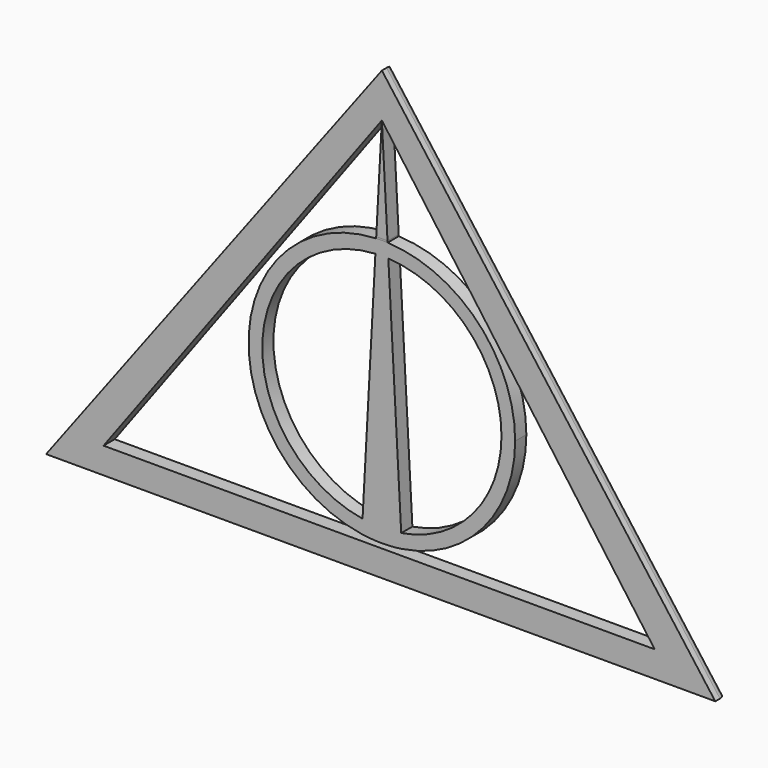
from build123d import *

# Parameters (mm, degrees)
F1_DEPTH = 4.3948143721
F2_R     = 2.54
F3_DEPTH = 4.318


with BuildPart() as f1:
    # F0 (on Front) → F1 (new body)
    with BuildSketch(Plane.XZ):
        with BuildLine():
            ThreePointArc((41.8964295767, 21.6959267855), (30.2550519176, 50.6776907887), (1.8002851927, 63.5536594582))
            Line((1.8002851927, 63.5536594582), (2.033911075, 59.2389039918))
            ThreePointArc((2.033911075, 59.2389039918), (27.2954481859, 47.5526558924), (37.5980309561, 21.6959267855))
            ThreePointArc((37.5980309561, 21.6959267855), (28.653509469, -2.6472103765), (6.0757245047, -15.4079477227))
            Line((6.0757245047, -15.4079477227), (6.3093503869, -19.7227031891))
            ThreePointArc((6.3093503869, -19.7227031891), (31.7777442988, -5.607658667), (41.8964295767, 21.6959267855))
        make_face()
        with BuildLine():
            Line((-2.033911075, 59.2389039918), (-1.8002851927, 63.5536594582))
            ThreePointArc((-1.8002851927, 63.5536594582), (-41.8351489928, 23.9611243544), (-6.3093503869, -19.7227031891))
            Line((-6.3093503869, -19.7227031891), (-6.0757245047, -15.4079477227))
            ThreePointArc((-6.0757245047, -15.4079477227), (-37.5430375041, 23.7287245484), (-2.033911075, 59.2389039918))
        make_face()
        with BuildLine():
            Line((0, -15.9021041707), (0, -20.2005027912))
            ThreePointArc((0, -20.2005027912), (3.1637080604, -20.0808821231), (6.3093503869, -19.7227031891))
            Line((6.3093503869, -19.7227031891), (6.0757245047, -15.4079477227))
            ThreePointArc((6.0757245047, -15.4079477227), (3.0478934878, -15.7783614275), (0, -15.9021041707))
        make_face()
        with BuildLine():
            Line((-6.0757245047, -15.4079477227), (-6.3093503869, -19.7227031891))
            ThreePointArc((-6.3093503869, -19.7227031891), (-3.1637080604, -20.0808821231), (0, -20.2005027912))
            Line((0, -20.2005027912), (0, -15.9021041707))
            ThreePointArc((0, -15.9021041707), (-3.0478934878, -15.7783614275), (-6.0757245047, -15.4079477227))
        make_face()
        with BuildLine():
            ThreePointArc((2.033911075, 59.2389039918), (1.017328017, 59.2801917841), (0, 59.2939577416))
            Line((0, 59.2939577416), (0, -15.9021041707))
            ThreePointArc((0, -15.9021041707), (3.0478934878, -15.7783614275), (6.0757245047, -15.4079477227))
            Line((6.0757245047, -15.4079477227), (2.033911075, 59.2389039918))
        make_face()
        with BuildLine():
            Line((0, -15.9021041707), (0, 59.2939577416))
            ThreePointArc((0, 59.2939577416), (-1.017328017, 59.2801917841), (-2.033911075, 59.2389039918))
            Line((-2.033911075, 59.2389039918), (-6.0757245047, -15.4079477227))
            ThreePointArc((-6.0757245047, -15.4079477227), (-3.0478934878, -15.7783614275), (0, -15.9021041707))
        make_face()
        with BuildLine():
            ThreePointArc((1.8002851927, 63.5536594582), (0.9003505186, 63.582681019), (0, 63.5923563622))
            Line((0, 63.5923563622), (0, 59.2939577416))
            ThreePointArc((0, 59.2939577416), (1.017328017, 59.2801917841), (2.033911075, 59.2389039918))
            Line((2.033911075, 59.2389039918), (1.8002851927, 63.5536594582))
        make_face()
        with BuildLine():
            Line((0, 59.2939577416), (0, 63.5923563622))
            ThreePointArc((0, 63.5923563622), (-0.9003505186, 63.582681019), (-1.8002851927, 63.5536594582))
            Line((-1.8002851927, 63.5536594582), (-2.033911075, 59.2389039918))
            ThreePointArc((-2.033911075, 59.2389039918), (-1.017328017, 59.2801917841), (0, 59.2939577416))
        make_face()
    extrude(amount=-F1_DEPTH)


with BuildPart() as f1b:
    # F0 (on Front) → F1, piece 2 (new body)
    with BuildSketch(Plane.XZ):
        Polygon((104.8010513186, -29.8607349396), (0, 110.6034815311), (-105.5374293366, -29.8607349396), align=None)
        Polygon((-87.4795168638, -21.6533243656), (0, 96.8025028706), (85.7472121716, -21.6533243656), align=None, mode=Mode.SUBTRACT)
    extrude(amount=-F1_DEPTH)

    # F2
    f2_edges = [f1b.edges().sort_by_distance(p)[0] for p in [
        (52.400526, 4.394814, 40.371373),
    ]]
    fillet(f2_edges, radius=F2_R)


with BuildPart() as f1c:
    # F0 (on Front) → F1, piece 3 (new body)
    with BuildSketch(Plane.XZ):
        with BuildLine():
            Line((1.7744143515, 64.0314590603), (0, 96.8025028706))
            Line((0, 96.8025028706), (0, 64.0686283666))
            ThreePointArc((0, 64.0686283666), (0.8874018042, 64.0593350209), (1.7744143515, 64.0314590603))
        make_face()
        with BuildLine():
            Line((0, 64.0686283666), (0, 96.8025028706))
            Line((0, 96.8025028706), (-1.7744143515, 64.0314590603))
            ThreePointArc((-1.7744143515, 64.0314590603), (-0.8874018042, 64.0593350209), (0, 64.0686283666))
        make_face()
    extrude(amount=-F1_DEPTH)


with BuildPart() as f3:
    # F0 (on Front) → F3 (new body)
    with BuildSketch(Plane.XZ):
        with BuildLine():
            Line((0, 63.5923563622), (0, 64.0686283666))
            ThreePointArc((0, 64.0686283666), (-0.8874018042, 64.0593350209), (-1.7744143515, 64.0314590603))
            Line((-1.7744143515, 64.0314590603), (-1.8002851927, 63.5536594582))
            ThreePointArc((-1.8002851927, 63.5536594582), (-0.9003505186, 63.582681019), (0, 63.5923563622))
        make_face()
        with BuildLine():
            ThreePointArc((1.7744143515, 64.0314590603), (0.8874018042, 64.0593350209), (0, 64.0686283666))
            Line((0, 64.0686283666), (0, 63.5923563622))
            ThreePointArc((0, 63.5923563622), (0.9003505186, 63.582681019), (1.8002851927, 63.5536594582))
            Line((1.8002851927, 63.5536594582), (1.7744143515, 64.0314590603))
        make_face()
    extrude(amount=-F3_DEPTH)


solid = Compound([f1.part, f1b.part, f1c.part, f3.part])
